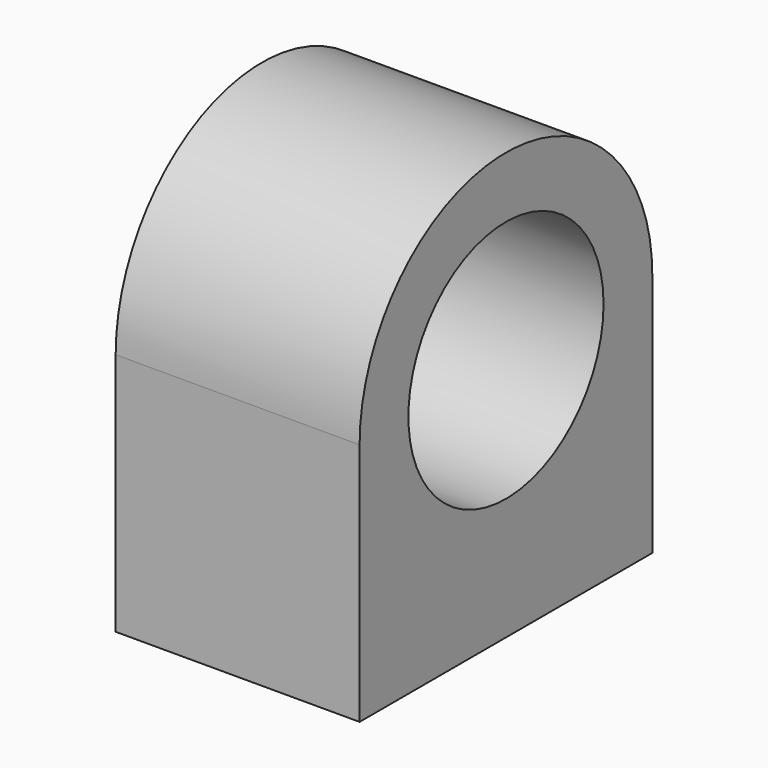
from build123d import *

# Parameters (mm, degrees)
F0_R     = 12.7
F1_DEPTH = 12.7
F2_R     = 3.175
F3_DEPTH = 12.7


with BuildPart() as f1:
    # F0 (on Right) → F1 (new body, symmetric)
    with BuildSketch(Plane.YZ):
        with BuildLine():
            Line((19.05, -25.4), (19.05, 0))
            ThreePointArc((19.05, 0), (0, 19.05), (-19.05, 0))
            Line((-19.05, 0), (-19.05, -25.4))
            Line((-19.05, -25.4), (19.05, -25.4))
        make_face()
        Circle(F0_R, mode=Mode.SUBTRACT)
    extrude(amount=F1_DEPTH, both=True)

    # F2 (on face) → F3 (cut)
    with BuildSketch(Plane(origin=(0, 0, -25.4), x_dir=(1, 0, 0), z_dir=(0, 0, -1))):
        with Locations((0, 12.7)):
            Circle(F2_R)
        with Locations((0, -12.7)):
            Circle(F2_R)
    extrude(amount=-F3_DEPTH, mode=Mode.SUBTRACT)


solid = f1.part
